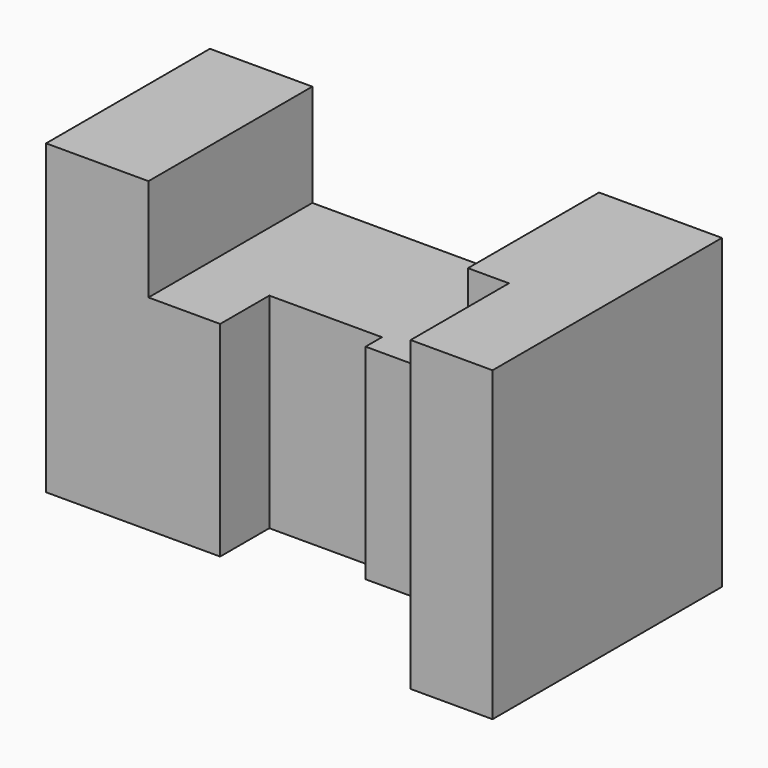
from build123d import *

# Parameters (mm, degrees)
F0_W     = 25
F0_H     = 50
F1_DEPTH = 75
F3_DEPTH = 50
F5_DEPTH = 75


with BuildPart() as f1:
    # F0 (on Top) → F1 (new body)
    with BuildSketch(Plane.XY):
        with Locations((12.5, 25)):
            Rectangle(F0_W, F0_H)
    extrude(amount=F1_DEPTH)

    # F2 (on Top) → F3 (join)
    with BuildSketch(Plane.XY):
        Polygon((25, 50), (25, 0), (42.5, 0), (42.5, 15), (70, 15), (70, 10), (95, 10), (95, 50), align=None)
    extrude(amount=F3_DEPTH)

    # F4 (on Top) → F5 (join)
    with BuildSketch(Plane.XY):
        Polygon((95, 50), (95, 10), (105, 10), (105, -20), (125, -20), (125, 50), align=None)
    extrude(amount=F5_DEPTH)


solid = f1.part
